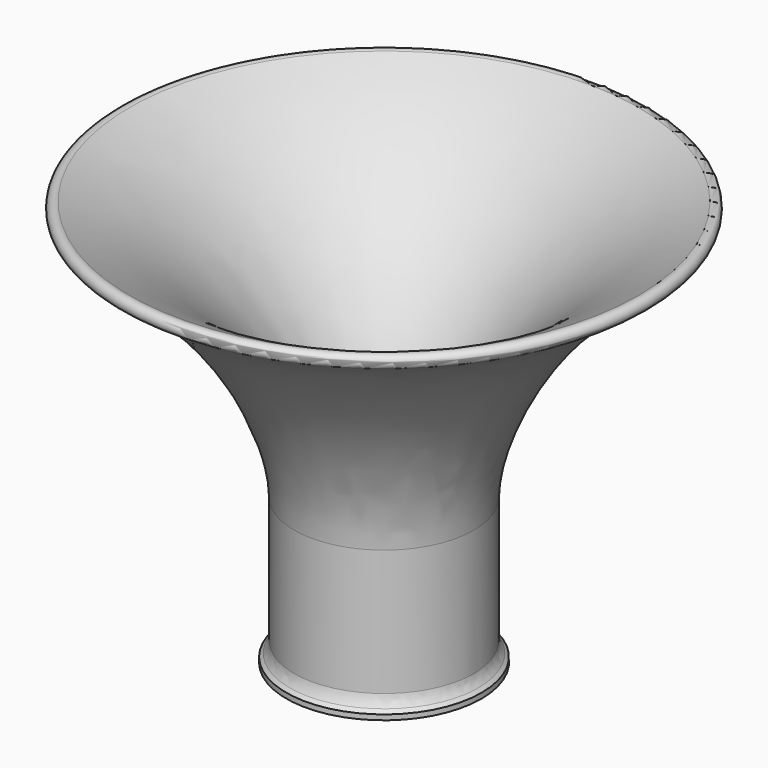
from build123d import *

# Parameters (mm, degrees)
F2_R = 3


with BuildPart() as f1:
    # F0 (on Front) → F1 (revolve)
    with BuildSketch(Plane.XZ):
        with BuildLine():
            Line((14.25, 1.5), (15.75, 0))
            Line((15.75, 0), (18.75, 0))
            Line((18.75, 0), (18.75, 1))
            Line((18.75, 1), (17.25, 2.5))
            Line((17.25, 2.5), (17.25, 28))
            add(Edge.make_bspline(
                [(17.25, 28), (17.25, 39.979273), (28.293444, 63.344206), (50, 75.752113)],
                knots=[0, 0, 0, 0, 57.903599, 57.903599, 57.903599, 57.903599], degree=3))
            ThreePointArc((50, 75.752113), (50.576906, 77.423094), (48.905924, 78))
            add(Edge.make_bspline(
                [(10.3, 28), (10.3, 43.203178), (22.836198, 65.311525), (48.905924, 78)],
                knots=[0, 0, 0, 0, 63.16975, 63.16975, 63.16975, 63.16975], degree=3))
            Line((10.3, 28), (14.25, 28))
            Line((14.25, 28), (14.25, 1.5))
        make_face()
    revolve(axis=Axis((0, 0, 11.551156), (0, 0, 1)))

    # F2
    f2_edges = [f1.edges().sort_by_distance(p)[0] for p in [
        (-17.25, 0, 2.5),
        (-14.25, 0, 1.5),
    ]]
    fillet(f2_edges, radius=F2_R)


solid = f1.part
